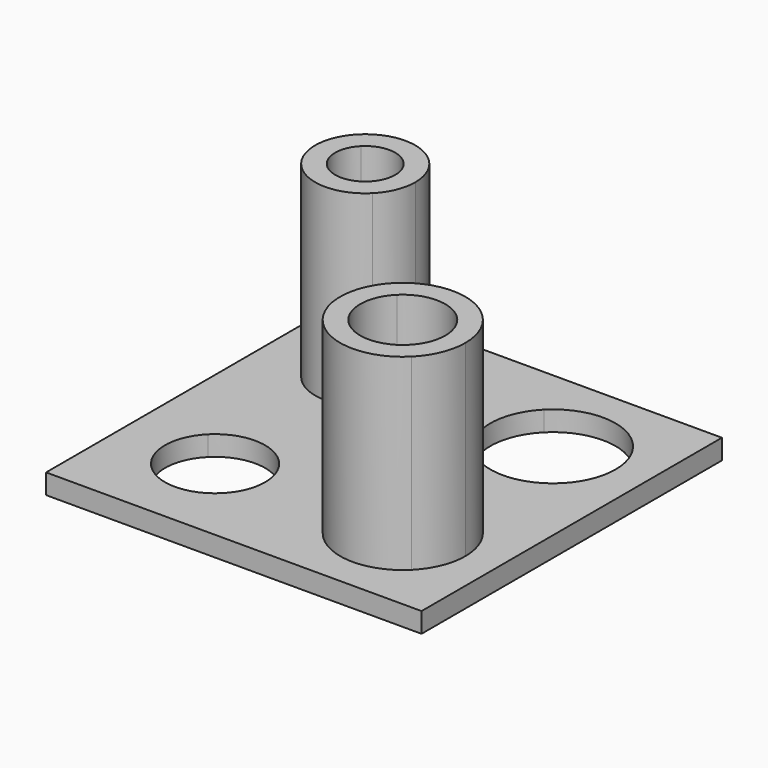
from build123d import *

# Parameters (mm, degrees)
F0_W     = 30
F0_H     = 30
F1_DEPTH = 1.6
F3_DEPTH = 15
F4_DEPTH = 25


with BuildPart() as f1:
    # F0 (on Top) → F1 (new body)
    with BuildSketch(Plane.XY):
        with Locations((15, -15)):
            Rectangle(F0_W, F0_H)
    extrude(amount=F1_DEPTH)

    # F2 (on face) → F3 (join)
    with BuildSketch(Plane.XY.offset(1.6)):
        with BuildLine():
            Line((5.8029437252, -5.8029437252), (4.6715728753, -4.6715728753))
            ThreePointArc((4.6715728753, -4.6715728753), (3.5, -7.5), (4.6715728753, -10.3284271247))
            Line((4.6715728753, -10.3284271247), (5.8029437252, -9.1970562748))
            ThreePointArc((5.8029437252, -9.1970562748), (5.1, -7.5), (5.8029437252, -5.8029437252))
        make_face()
        with BuildLine():
            ThreePointArc((10.3284271247, -4.6715728753), (7.5, -3.5), (4.6715728753, -4.6715728753))
            Line((4.6715728753, -4.6715728753), (5.8029437252, -5.8029437252))
            ThreePointArc((5.8029437252, -5.8029437252), (7.5, -5.1), (9.1970562748, -5.8029437252))
            Line((9.1970562748, -5.8029437252), (10.3284271247, -4.6715728753))
        make_face()
        with BuildLine():
            ThreePointArc((11.5, -7.5), (11.19551813, -5.9692662705), (10.3284271247, -4.6715728753))
            Line((10.3284271247, -4.6715728753), (9.1970562748, -5.8029437252))
            ThreePointArc((9.1970562748, -5.8029437252), (9.717310878, -6.5815597623), (9.9, -7.5))
            ThreePointArc((9.9, -7.5), (9.717310878, -8.4184402377), (9.1970562748, -9.1970562748))
            Line((9.1970562748, -9.1970562748), (10.3284271247, -10.3284271247))
            ThreePointArc((10.3284271247, -10.3284271247), (11.19551813, -9.0307337295), (11.5, -7.5))
        make_face()
        with BuildLine():
            Line((5.8029437252, -9.1970562748), (4.6715728753, -10.3284271247))
            ThreePointArc((4.6715728753, -10.3284271247), (7.5, -11.5), (10.3284271247, -10.3284271247))
            Line((10.3284271247, -10.3284271247), (9.1970562748, -9.1970562748))
            ThreePointArc((9.1970562748, -9.1970562748), (7.5, -9.9), (5.8029437252, -9.1970562748))
        make_face()
        with BuildLine():
            ThreePointArc((18.9644660941, -18.9644660941), (17.5, -22.5), (18.9644660941, -26.0355339059))
            Line((18.9644660941, -26.0355339059), (20.095836944, -24.904163056))
            ThreePointArc((20.095836944, -24.904163056), (19.1, -22.5), (20.095836944, -20.095836944))
            Line((20.095836944, -20.095836944), (18.9644660941, -18.9644660941))
        make_face()
        with BuildLine():
            Line((24.904163056, -20.095836944), (26.0355339059, -18.9644660941))
            ThreePointArc((26.0355339059, -18.9644660941), (22.5, -17.5), (18.9644660941, -18.9644660941))
            Line((18.9644660941, -18.9644660941), (20.095836944, -20.095836944))
            ThreePointArc((20.095836944, -20.095836944), (22.5, -19.1), (24.904163056, -20.095836944))
        make_face()
        with BuildLine():
            ThreePointArc((27.5, -22.5), (27.1193976626, -20.5865828382), (26.0355339059, -18.9644660941))
            Line((26.0355339059, -18.9644660941), (24.904163056, -20.095836944))
            ThreePointArc((24.904163056, -20.095836944), (25.6411904105, -21.19887633), (25.9, -22.5))
            ThreePointArc((25.9, -22.5), (25.6411904105, -23.80112367), (24.904163056, -24.904163056))
            Line((24.904163056, -24.904163056), (26.0355339059, -26.0355339059))
            ThreePointArc((26.0355339059, -26.0355339059), (27.1193976626, -24.4134171618), (27.5, -22.5))
        make_face()
        with BuildLine():
            Line((20.095836944, -24.904163056), (18.9644660941, -26.0355339059))
            ThreePointArc((18.9644660941, -26.0355339059), (22.5, -27.5), (26.0355339059, -26.0355339059))
            Line((26.0355339059, -26.0355339059), (24.904163056, -24.904163056))
            ThreePointArc((24.904163056, -24.904163056), (22.5, -25.9), (20.095836944, -24.904163056))
        make_face()
    extrude(amount=F3_DEPTH)

    # F2 (on face) → F4 (cut)
    with BuildSketch(Plane.XY.offset(1.6)):
        with BuildLine():
            Line((26.0355339059, -11.0355339059), (22.5, -7.5))
            Line((22.5, -7.5), (18.9644660941, -11.0355339059))
            ThreePointArc((18.9644660941, -11.0355339059), (22.5, -12.5), (26.0355339059, -11.0355339059))
        make_face()
        with BuildLine():
            Line((22.5, -7.5), (18.9644660941, -3.9644660941))
            ThreePointArc((18.9644660941, -3.9644660941), (17.5, -7.5), (18.9644660941, -11.0355339059))
            Line((18.9644660941, -11.0355339059), (22.5, -7.5))
        make_face()
        with BuildLine():
            ThreePointArc((26.0355339059, -3.9644660941), (22.5, -2.5), (18.9644660941, -3.9644660941))
            Line((18.9644660941, -3.9644660941), (22.5, -7.5))
            Line((22.5, -7.5), (26.0355339059, -3.9644660941))
        make_face()
        with BuildLine():
            Line((26.0355339059, -3.9644660941), (22.5, -7.5))
            Line((22.5, -7.5), (26.0355339059, -11.0355339059))
            ThreePointArc((26.0355339059, -11.0355339059), (27.1193976626, -9.4134171618), (27.5, -7.5))
            ThreePointArc((27.5, -7.5), (27.1193976626, -5.5865828382), (26.0355339059, -3.9644660941))
        make_face()
        with BuildLine():
            Line((9.1970562748, -5.8029437252), (7.5, -7.5))
            Line((7.5, -7.5), (9.1970562748, -9.1970562748))
            ThreePointArc((9.1970562748, -9.1970562748), (9.717310878, -8.4184402377), (9.9, -7.5))
            ThreePointArc((9.9, -7.5), (9.717310878, -6.5815597623), (9.1970562748, -5.8029437252))
        make_face()
        with BuildLine():
            ThreePointArc((9.1970562748, -5.8029437252), (7.5, -5.1), (5.8029437252, -5.8029437252))
            Line((5.8029437252, -5.8029437252), (7.5, -7.5))
            Line((7.5, -7.5), (9.1970562748, -5.8029437252))
        make_face()
        with BuildLine():
            Line((7.5, -7.5), (5.8029437252, -5.8029437252))
            ThreePointArc((5.8029437252, -5.8029437252), (5.1, -7.5), (5.8029437252, -9.1970562748))
            Line((5.8029437252, -9.1970562748), (7.5, -7.5))
        make_face()
        with BuildLine():
            Line((9.1970562748, -9.1970562748), (7.5, -7.5))
            Line((7.5, -7.5), (5.8029437252, -9.1970562748))
            ThreePointArc((5.8029437252, -9.1970562748), (7.5, -9.9), (9.1970562748, -9.1970562748))
        make_face()
        with BuildLine():
            ThreePointArc((10.3284271247, -19.6715728753), (7.5, -18.5), (4.6715728753, -19.6715728753))
            Line((4.6715728753, -19.6715728753), (7.5, -22.5))
            Line((7.5, -22.5), (10.3284271247, -19.6715728753))
        make_face()
        with BuildLine():
            Line((10.3284271247, -19.6715728753), (7.5, -22.5))
            Line((7.5, -22.5), (10.3284271247, -25.3284271247))
            ThreePointArc((10.3284271247, -25.3284271247), (11.19551813, -24.0307337295), (11.5, -22.5))
            ThreePointArc((11.5, -22.5), (11.19551813, -20.9692662705), (10.3284271247, -19.6715728753))
        make_face()
        with BuildLine():
            Line((10.3284271247, -25.3284271247), (7.5, -22.5))
            Line((7.5, -22.5), (4.6715728753, -25.3284271247))
            ThreePointArc((4.6715728753, -25.3284271247), (7.5, -26.5), (10.3284271247, -25.3284271247))
        make_face()
        with BuildLine():
            Line((7.5, -22.5), (4.6715728753, -19.6715728753))
            ThreePointArc((4.6715728753, -19.6715728753), (3.5, -22.5), (4.6715728753, -25.3284271247))
            Line((4.6715728753, -25.3284271247), (7.5, -22.5))
        make_face()
        with BuildLine():
            ThreePointArc((20.095836944, -20.095836944), (19.1, -22.5), (20.095836944, -24.904163056))
            Line((20.095836944, -24.904163056), (22.5, -22.5))
            Line((22.5, -22.5), (20.095836944, -20.095836944))
        make_face()
        with BuildLine():
            Line((22.5, -22.5), (24.904163056, -20.095836944))
            ThreePointArc((24.904163056, -20.095836944), (22.5, -19.1), (20.095836944, -20.095836944))
            Line((20.095836944, -20.095836944), (22.5, -22.5))
        make_face()
        with BuildLine():
            ThreePointArc((25.9, -22.5), (25.6411904105, -21.19887633), (24.904163056, -20.095836944))
            Line((24.904163056, -20.095836944), (22.5, -22.5))
            Line((22.5, -22.5), (24.904163056, -24.904163056))
            ThreePointArc((24.904163056, -24.904163056), (25.6411904105, -23.80112367), (25.9, -22.5))
        make_face()
        with BuildLine():
            Line((22.5, -22.5), (20.095836944, -24.904163056))
            ThreePointArc((20.095836944, -24.904163056), (22.5, -25.9), (24.904163056, -24.904163056))
            Line((24.904163056, -24.904163056), (22.5, -22.5))
        make_face()
    extrude(amount=-F4_DEPTH, mode=Mode.SUBTRACT)


solid = f1.part
